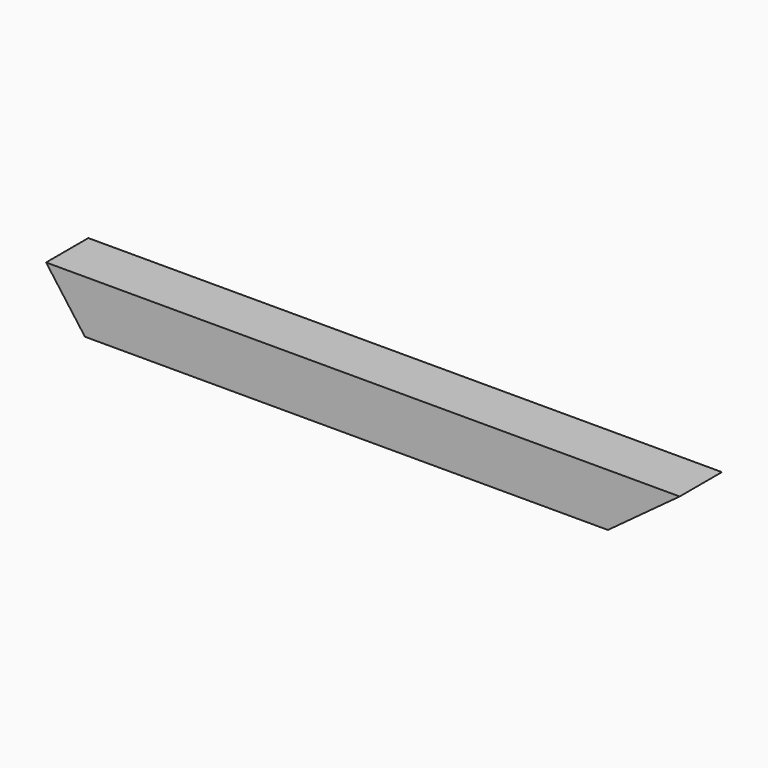
from build123d import *

# Parameters (mm, degrees)
F0_W     = 152.4
F0_H     = 152.4
F0_W_2   = 139.7
F0_H_2   = 139.7
F1_DEPTH = 1828.8
F3_DEPTH = 203.2


with BuildPart() as f1:
    # F0 (on Right) → F1 (new body)
    with BuildSketch(Plane.YZ):
        Rectangle(F0_W, F0_H)
        Rectangle(F0_W_2, F0_H_2, mode=Mode.SUBTRACT)
    extrude(amount=F1_DEPTH)

    # F2 (on face) → F3 (cut)
    with BuildSketch(Plane.XZ.offset(76.2)):
        Polygon((112.112819, -76.2), (0, 76.2), (0, -76.2), align=None)
        Polygon((1828.8, -76.2), (1828.8, 76.2), (1621.635823, -76.2), align=None)
    extrude(amount=-F3_DEPTH, mode=Mode.SUBTRACT)


solid = f1.part
